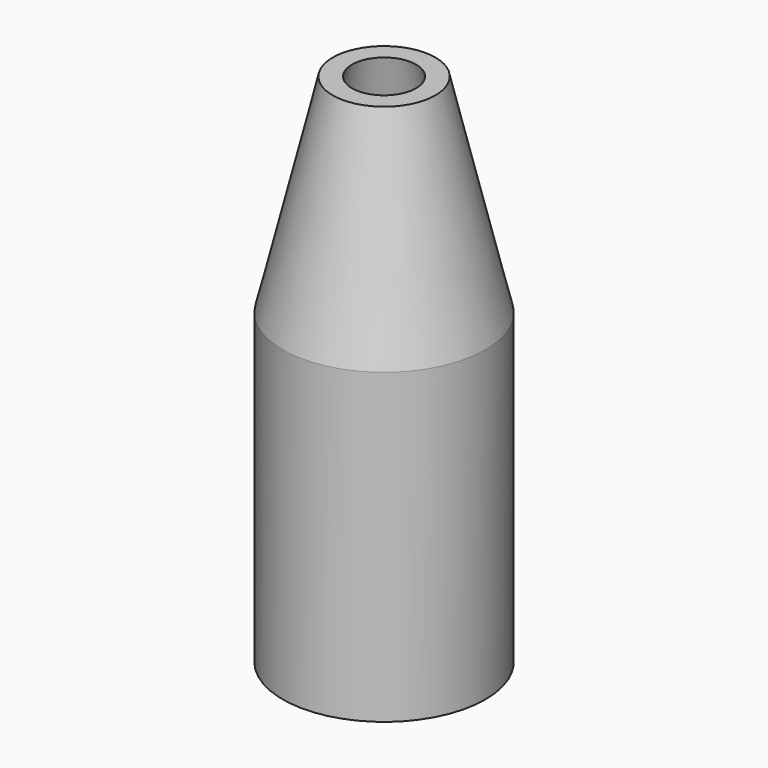
from build123d import *

# Parameters (mm, degrees)
BOX002_W          = 2
BOX002_H          = 4.5
BOX002_DEPTH      = 15.8
CYLINDER001_R     = 6.4
CYLINDER001_DEPTH = 24
CYLINDER_R        = 7.9
CYLINDER_DEPTH    = 24


with BuildPart() as schlitz:
    # Box002 → Box002 (new body)
    with BuildSketch(Plane(origin=(-1, 5.4, 16), x_dir=(1, 0, 0), z_dir=(0, 0, 1))):
        with Locations((1, 2.25)):
            Rectangle(BOX002_W, BOX002_H)
    extrude(amount=BOX002_DEPTH)


with BuildPart() as kegel001:
    # Cone001 → Cone001 (revolve)
    with BuildSketch(Plane(origin=(0, 0, 24), x_dir=(1, 0, 0), z_dir=(0, -1, 0))):
        Polygon((0, 0), (6.4, 0), (2.5, 16.2), (0, 16.2), align=None)
    revolve(axis=Axis((0, 0, 24), (0, 0, 1)))


with BuildPart() as cut001:
    # Cone → Cone (revolve)
    with BuildSketch(Plane(origin=(0, 0, 24), x_dir=(1, 0, 0), z_dir=(0, -1, 0))):
        Polygon((0, 0), (7.9, 0), (4, 16.2), (0, 16.2), align=None)
    revolve(axis=Axis((0, 0, 24), (0, 0, 1)))

    # Cut001: cut Kegel001
    add(kegel001.part, mode=Mode.SUBTRACT)


with BuildPart() as loch_vorne:
    # Cylinder001 → Cylinder001 (new body)
    with BuildSketch(Plane.XY):
        Circle(CYLINDER001_R)
    extrude(amount=CYLINDER001_DEPTH)


with BuildPart() as obj1:
    # Cylinder → Cylinder (new body)
    with BuildSketch(Plane.XY):
        Circle(CYLINDER_R)
    extrude(amount=CYLINDER_DEPTH)

    # Cut: cut Loch_vorne
    add(loch_vorne.part, mode=Mode.SUBTRACT)

    # Fusion001: union Cut001
    add(cut001.part)

    # Cut002: cut Schlitz
    add(schlitz.part, mode=Mode.SUBTRACT)


solid = obj1.part
